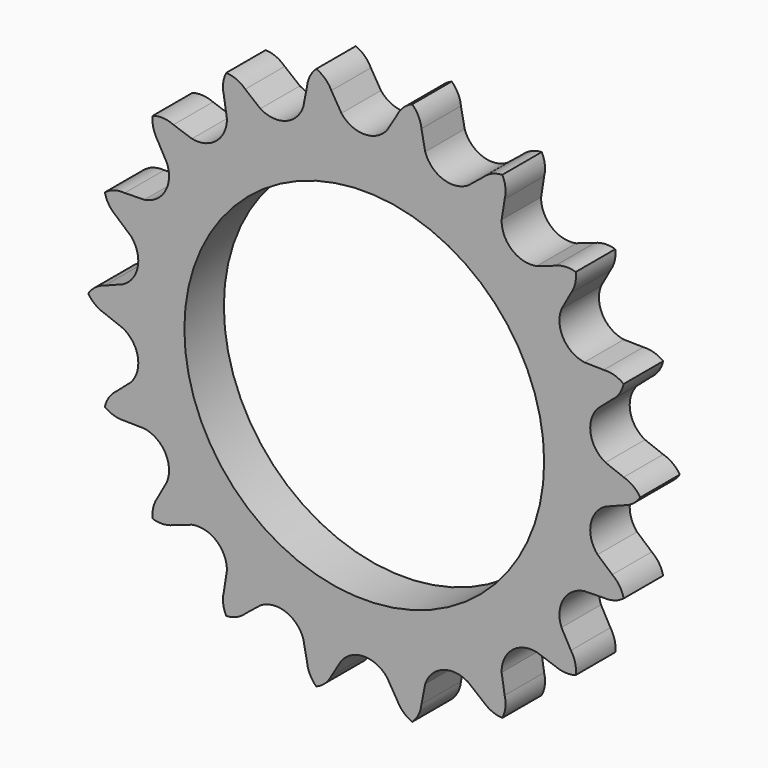
from build123d import *

# Parameters (mm, degrees)
F0_R     = 49.784
F1_DEPTH = 4.3561
F2_R     = 31.75
F3_DEPTH = 8.7132
F4_R     = 31.75
F5_DEPTH = 8.7132


with BuildPart() as f1:
    # F0 (on Front) → F1 (new body, symmetric)
    with BuildSketch(Plane.XZ):
        Circle(F0_R)
    extrude(amount=F1_DEPTH, both=True)

    # F2 (on face) → F3 (cut, through all)
    with BuildSketch(Plane.XZ.offset(4.3561)):
        Circle(F2_R)
    extrude(amount=-F3_DEPTH, mode=Mode.SUBTRACT)

    # F4 (on face) → F5 (intersect, through all)
    with BuildSketch(Plane.XZ.offset(4.3561)):
        with BuildLine():
            Line((-4.0281049428, 42.525724672), (-5.8042455242, 45.4699524537))
            ThreePointArc((-5.8042455242, 45.4699524537), (-6.9011720072, 46.9709680265), (-8.4606952501, 47.9829871535))
            ThreePointArc((-8.4606952501, 47.9829871535), (-9.5800368067, 46.4986118846), (-10.0974329669, 44.7129476743))
            Line((-10.0974329669, 44.7129476743), (-10.7594739569, 41.3388026977))
            ThreePointArc((-10.7594739569, 41.3388026977), (-13.8775459801, 38.1282442177), (-18.3298349378, 38.583416638))
            Line((-18.3298349378, 38.583416638), (-21.0058463435, 40.7426099021))
            ThreePointArc((-21.0058463435, 40.7426099021), (-22.5499976265, 41.7779322066), (-24.3616010367, 42.1955307493))
            ThreePointArc((-24.3616010367, 42.1955307493), (-24.9057517953, 40.4178369031), (-24.78121202, 38.5629015125))
            Line((-24.78121202, 38.5629015125), (-24.2493015044, 35.1658110223))
            ThreePointArc((-24.2493015044, 35.1658110223), (-26.0812551042, 31.0824294698), (-30.4207163198, 29.9873791269))
            Line((-30.4207163198, 29.9873791269), (-33.6738320805, 31.1011072995))
            ThreePointArc((-33.6738320805, 31.1011072995), (-35.4789607295, 31.5458611861), (-37.3241381993, 31.318670597))
            ThreePointArc((-37.3241381993, 31.318670597), (-37.2274655477, 29.4620742873), (-36.4760111717, 27.7616003006))
            Line((-36.4760111717, 27.7616003006), (-34.8143054089, 24.7513035456))
            ThreePointArc((-34.8143054089, 24.7513035456), (-35.1391799444, 20.287615), (-38.8424103517, 17.7744211264))
            Line((-38.8424103517, 17.7744211264), (-42.2802566958, 17.7083521531))
            ThreePointArc((-42.2802566958, 17.7083521531), (-44.1286375548, 17.5088937391), (-45.7848334494, 16.6643165564))
            ThreePointArc((-45.7848334494, 16.6643165564), (-45.0589975361, 14.9527506986), (-43.7712650475, 13.6118403748))
            Line((-43.7712650475, 13.6118403748), (-41.1801902767, 11.3514235709))
            ThreePointArc((-41.1801902767, 11.3514235709), (-39.9588010843, 7.0458147479), (-42.5791364422, 3.4176056157))
            Line((-42.5791364422, 3.4176056157), (-45.7870583635, 2.1797083896))
            ThreePointArc((-45.7870583635, 2.1797083896), (-47.4557494218, 1.3600953035), (-48.7232020734, 0))
            ThreePointArc((-48.7232020734, 0), (-47.4557494218, -1.3600953035), (-45.7870583635, -2.1797083896))
            Line((-45.7870583635, -2.1797083896), (-42.5791364422, -3.4176056157))
            ThreePointArc((-42.5791364422, -3.4176056157), (-39.9588010843, -7.0458147479), (-41.1801902767, -11.3514235709))
            Line((-41.1801902767, -11.3514235709), (-43.7712650475, -13.6118403748))
            ThreePointArc((-43.7712650475, -13.6118403748), (-45.0589975361, -14.9527506986), (-45.7848334494, -16.6643165564))
            ThreePointArc((-45.7848334494, -16.6643165564), (-44.1286375548, -17.5088937391), (-42.2802566958, -17.7083521531))
            Line((-42.2802566958, -17.7083521531), (-38.8424103517, -17.7744211264))
            ThreePointArc((-38.8424103517, -17.7744211264), (-35.1391799444, -20.287615), (-34.8143054089, -24.7513035456))
            Line((-34.8143054089, -24.7513035456), (-36.4760111717, -27.7616003006))
            ThreePointArc((-36.4760111717, -27.7616003006), (-37.2274655477, -29.4620742873), (-37.3241381993, -31.318670597))
            ThreePointArc((-37.3241381993, -31.318670597), (-35.4789607295, -31.5458611861), (-33.6738320805, -31.1011072995))
            Line((-33.6738320805, -31.1011072995), (-30.4207163198, -29.9873791269))
            ThreePointArc((-30.4207163198, -29.9873791269), (-26.0812551042, -31.0824294698), (-24.2493015044, -35.1658110223))
            Line((-24.2493015044, -35.1658110223), (-24.78121202, -38.5629015125))
            ThreePointArc((-24.78121202, -38.5629015125), (-24.9057517953, -40.4178369031), (-24.3616010367, -42.1955307493))
            ThreePointArc((-24.3616010367, -42.1955307493), (-22.5499976265, -41.7779322066), (-21.0058463435, -40.7426099021))
            Line((-21.0058463435, -40.7426099021), (-18.3298349378, -38.583416638))
            ThreePointArc((-18.3298349378, -38.583416638), (-13.8775459801, -38.1282442177), (-10.7594739569, -41.3388026977))
            Line((-10.7594739569, -41.3388026977), (-10.0974329669, -44.7129476743))
            ThreePointArc((-10.0974329669, -44.7129476743), (-9.5800368067, -46.4986118846), (-8.4606952501, -47.9829871535))
            ThreePointArc((-8.4606952501, -47.9829871535), (-6.9011720072, -46.9709680265), (-5.8042455242, -45.4699524537))
            Line((-5.8042455242, -45.4699524537), (-4.0281049428, -42.525724672))
            ThreePointArc((-4.0281049428, -42.525724672), (0, -40.57523), (4.0281049428, -42.525724672))
            Line((4.0281049428, -42.525724672), (5.8042455242, -45.4699524537))
            ThreePointArc((5.8042455242, -45.4699524537), (6.9011720072, -46.9709680265), (8.4606952501, -47.9829871535))
            ThreePointArc((8.4606952501, -47.9829871535), (9.5800368067, -46.4986118846), (10.0974329669, -44.7129476743))
            Line((10.0974329669, -44.7129476743), (10.7594739569, -41.3388026977))
            ThreePointArc((10.7594739569, -41.3388026977), (13.8775459801, -38.1282442177), (18.3298349378, -38.583416638))
            Line((18.3298349378, -38.583416638), (21.0058463435, -40.7426099021))
            ThreePointArc((21.0058463435, -40.7426099021), (22.5499976265, -41.7779322066), (24.3616010367, -42.1955307493))
            ThreePointArc((24.3616010367, -42.1955307493), (24.9057517953, -40.4178369031), (24.78121202, -38.5629015125))
            Line((24.78121202, -38.5629015125), (24.2493015044, -35.1658110223))
            ThreePointArc((24.2493015044, -35.1658110223), (26.0812551042, -31.0824294698), (30.4207163198, -29.9873791269))
            Line((30.4207163198, -29.9873791269), (33.6738320805, -31.1011072995))
            ThreePointArc((33.6738320805, -31.1011072995), (35.4789607295, -31.5458611861), (37.3241381993, -31.318670597))
            ThreePointArc((37.3241381993, -31.318670597), (37.2274655477, -29.4620742873), (36.4760111717, -27.7616003006))
            Line((36.4760111717, -27.7616003006), (34.8143054089, -24.7513035456))
            ThreePointArc((34.8143054089, -24.7513035456), (35.1391799444, -20.287615), (38.8424103517, -17.7744211264))
            Line((38.8424103517, -17.7744211264), (42.2802566958, -17.7083521531))
            ThreePointArc((42.2802566958, -17.7083521531), (44.1286375548, -17.5088937391), (45.7848334494, -16.6643165564))
            ThreePointArc((45.7848334494, -16.6643165564), (45.0589975361, -14.9527506986), (43.7712650475, -13.6118403748))
            Line((43.7712650475, -13.6118403748), (41.1801902767, -11.3514235709))
            ThreePointArc((41.1801902767, -11.3514235709), (39.9588010843, -7.0458147479), (42.5791364422, -3.4176056157))
            Line((42.5791364422, -3.4176056157), (45.7870583635, -2.1797083896))
            ThreePointArc((45.7870583635, -2.1797083896), (47.4557494218, -1.3600953035), (48.7232020734, 0))
            ThreePointArc((48.7232020734, 0), (47.4557494218, 1.3600953035), (45.7870583635, 2.1797083896))
            Line((45.7870583635, 2.1797083896), (42.5791364422, 3.4176056157))
            ThreePointArc((42.5791364422, 3.4176056157), (39.9588010843, 7.0458147479), (41.1801902767, 11.3514235709))
            Line((41.1801902767, 11.3514235709), (43.7712650475, 13.6118403748))
            ThreePointArc((43.7712650475, 13.6118403748), (45.0589975361, 14.9527506986), (45.7848334494, 16.6643165564))
            ThreePointArc((45.7848334494, 16.6643165564), (44.1286375548, 17.5088937391), (42.2802566958, 17.7083521531))
            Line((42.2802566958, 17.7083521531), (38.8424103517, 17.7744211264))
            ThreePointArc((38.8424103517, 17.7744211264), (35.1391799444, 20.287615), (34.8143054089, 24.7513035456))
            Line((34.8143054089, 24.7513035456), (36.4760111717, 27.7616003006))
            ThreePointArc((36.4760111717, 27.7616003006), (37.2274655477, 29.4620742873), (37.3241381993, 31.318670597))
            ThreePointArc((37.3241381993, 31.318670597), (35.4789607295, 31.5458611861), (33.6738320805, 31.1011072995))
            Line((33.6738320805, 31.1011072995), (30.4207163198, 29.9873791269))
            ThreePointArc((30.4207163198, 29.9873791269), (26.0812551042, 31.0824294698), (24.2493015044, 35.1658110223))
            Line((24.2493015044, 35.1658110223), (24.78121202, 38.5629015125))
            ThreePointArc((24.78121202, 38.5629015125), (24.9057517953, 40.4178369031), (24.3616010367, 42.1955307493))
            ThreePointArc((24.3616010367, 42.1955307493), (22.5499976265, 41.7779322066), (21.0058463435, 40.7426099021))
            Line((21.0058463435, 40.7426099021), (18.3298349378, 38.583416638))
            ThreePointArc((18.3298349378, 38.583416638), (13.8775459801, 38.1282442177), (10.7594739569, 41.3388026977))
            Line((10.7594739569, 41.3388026977), (10.0974329669, 44.7129476743))
            ThreePointArc((10.0974329669, 44.7129476743), (9.5800368067, 46.4986118846), (8.4606952501, 47.9829871535))
            ThreePointArc((8.4606952501, 47.9829871535), (6.9011720072, 46.9709680265), (5.8042455242, 45.4699524537))
            Line((5.8042455242, 45.4699524537), (4.0281049428, 42.525724672))
            ThreePointArc((4.0281049428, 42.525724672), (0, 40.57523), (-4.0281049428, 42.525724672))
        make_face()
        Circle(F4_R, mode=Mode.SUBTRACT)
    extrude(amount=-F5_DEPTH, mode=Mode.INTERSECT)


solid = f1.part
